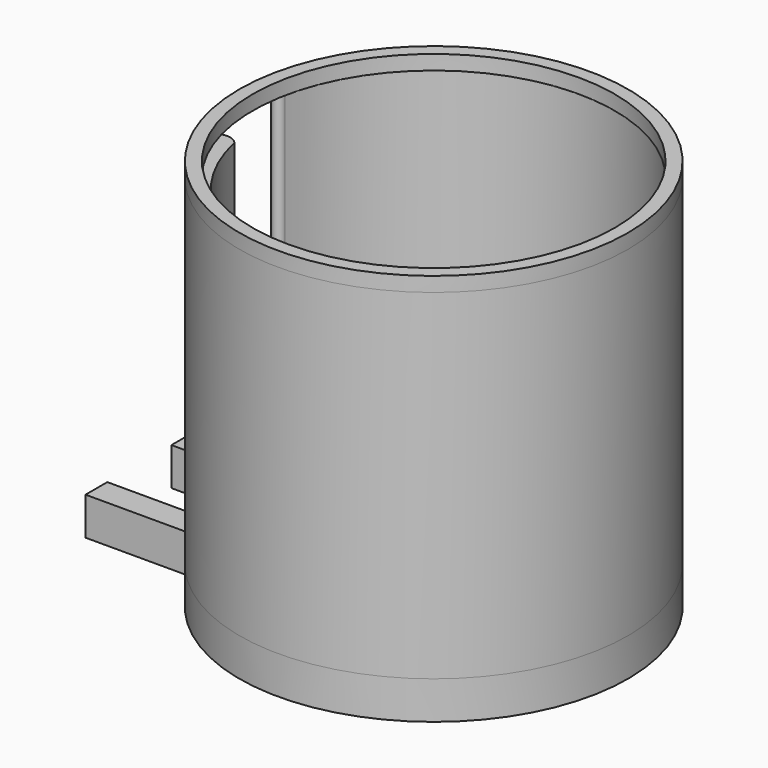
from build123d import *

# Parameters (mm, degrees)
PAD002_DEPTH  = 7.8
PAD_DEPTH     = 70
SKETCH037_R   = 40
SKETCH037_R_2 = 37.263874
PAD003_DEPTH  = 3
SKETCH038_R   = 37.75
SKETCH038_R_2 = 34.1163531471
PAD004_DEPTH  = 3


with BuildPart() as part:
    # Sketch036 → Pad002 (new body)
    with BuildSketch(Plane.XY.offset(4.25)):
        with BuildLine():
            Line((221.1908881172, 52.117988), (210.2803272855, 52.117988))
            Line((210.2803272855, 52.117988), (210.2803272855, 46.517988))
            Line((210.2803272855, 46.517988), (222.4393319888, 46.517988))
            ThreePointArc((226.517548, 30.017988), (229.5828812778, 39.5296252224), (222.4393319888, 46.517988))
            Line((220.1803272855, 30.017988), (226.517548, 30.017988))
            Line((210.2803272855, 30.017988), (220.1803272855, 30.017988))
            Line((210.2803272855, 30.017988), (210.2803272855, 24.417988))
            Line((210.2803272855, 24.417988), (232.4311698855, 24.417988))
            ThreePointArc((232.4311698855, 24.417988), (309.0297689267, 41.1984446323), (231.9255099311, 55.4764817733))
            ThreePointArc((221.1908881172, 52.117988), (226.7588734106, 53.1558272223), (231.9255099311, 55.4764817733))
        make_face()
        with BuildLine():
            ThreePointArc((252.5144646184, 6.8824824424), (302.747151692, 56.9712258563), (232.3426033937, 48.2876409781))
            Line((236.38045916, 30.2532447879), (232.3426033937, 48.2876409781))
            ThreePointArc((236.38045916, 30.2532447879), (242.114784508, 16.9574998176), (252.5144646184, 6.8824824424))
        make_face(mode=Mode.SUBTRACT)
    extrude(amount=PAD002_DEPTH)

    # Sketch (on Face15 of Pad002) → Pad (join)
    with BuildSketch(Plane.XY.offset(12.05)):
        with BuildLine():
            ThreePointArc((252.4808381991, 6.8990050545), (302.7374672811, 56.9910894012), (232.3258342856, 48.2077176229))
            ThreePointArc((229.7781905775, 48.2217645891), (231.0448692794, 46.9192153434), (232.3258342856, 48.2077176229))
            ThreePointArc((230.9504948913, 28.3176101637), (308.9658709648, 42.8991184314), (229.7781905775, 48.2217645891))
            ThreePointArc((236.4314409979, 30.017988), (233.1244202603, 30.9939916247), (230.9504948913, 28.3176101637))
            ThreePointArc((236.4314409979, 30.017988), (242.1720253216, 16.8728447116), (252.4808381991, 6.8990050545))
        make_face()
    extrude(amount=PAD_DEPTH)

    # Sketch037 (on Face21 of Pad) → Pad003 (join)
    with BuildSketch(Plane.XY.offset(82.05)):
        with Locations((269.0350692214, 40.5472952824)):
            Circle(SKETCH037_R)
        with Locations((269.0350692214, 40.5472952824)):
            Circle(SKETCH037_R_2, mode=Mode.SUBTRACT)
    extrude(amount=PAD003_DEPTH)

    # Sketch038 → Pad004 (join)
    with BuildSketch(Plane.XY.offset(4.25)):
        with Locations((269.0350692214, 40.5472952824)):
            Circle(SKETCH038_R)
        with Locations((269.0350692214, 40.5472952824)):
            Circle(SKETCH038_R_2, mode=Mode.SUBTRACT)
    extrude(amount=PAD004_DEPTH)


solid = part.part
